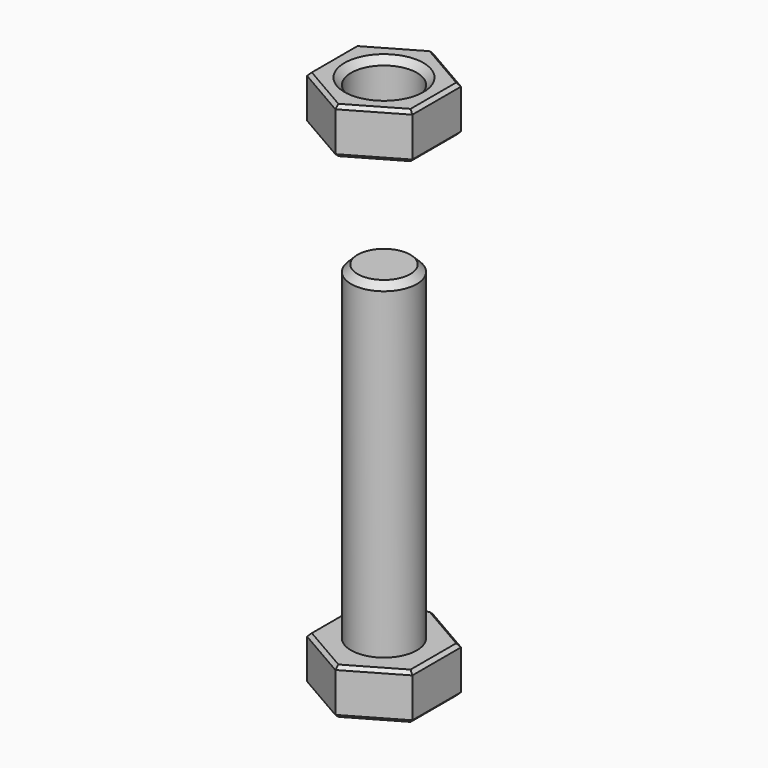
from build123d import *

# Parameters (mm, degrees)
F3_DEPTH   = 2.8
F4_R       = 2
F5_DEPTH   = 20
F7_R       = 2
F8_DEPTH   = 2.8
F9_SIZE2   = 0.2
F9_SIZE    = 0.2
F9_2_SIZE2 = 0.2
F9_2_SIZE  = 0.2
F10_SIZE   = 0.4
F10_2_SIZE = 0.4


with BuildPart() as f3:
    # F2 (on Top) → F3 (new body)
    with BuildSketch(Plane.XY):
        Polygon((0, -3.6950417228), (3.2, -1.8475208614), (3.2, 1.8475208614), (0, 3.6950417228), (-3.2, 1.8475208614), (-3.2, -1.8475208614), align=None)
    extrude(amount=F3_DEPTH)

    # F4 (on face) → F5 (join)
    with BuildSketch(Plane.XY.offset(2.8)):
        Circle(F4_R)
    extrude(amount=F5_DEPTH)

    # F9
    f9_edges = [f3.edges().sort_by_distance(p)[0] for p in [
        (-1.6, -2.771281, 0),
        (1.6, -2.771281, 0),
        (3.2, 0, 0),
        (1.6, 2.771281, 0),
        (-1.6, 2.771281, 0),
        (-3.2, 0, 0),
        (-3.2, 0, 2.8),
        (-1.6, -2.771281, 2.8),
        (1.6, -2.771281, 2.8),
        (-1.6, 2.771281, 2.8),
        (1.6, 2.771281, 2.8),
        (3.2, 0, 2.8),
    ]]
    chamfer(f9_edges, length=F9_SIZE, length2=F9_SIZE2)

    # F10
    f10_edges = [f3.edges().sort_by_distance(p)[0] for p in [
        (-2, 0, 22.8),
    ]]
    chamfer(f10_edges, length=F10_SIZE)


with BuildPart() as f8:
    # F7 (on offset) → F8 (new body)
    with BuildSketch(Plane.XY.offset(30)):
        Polygon((0, -3.6950417228), (3.2, -1.8475208614), (3.2, 1.8475208614), (0, 3.6950417228), (-3.2, 1.8475208614), (-3.2, -1.8475208614), align=None)
        Circle(F7_R, mode=Mode.SUBTRACT)
    extrude(amount=F8_DEPTH)

    # F9#2
    f9_2_edges = [f8.edges().sort_by_distance(p)[0] for p in [
        (1.6, 2.771281, 32.8),
        (-1.6, 2.771281, 32.8),
        (-3.2, 0, 32.8),
        (-1.6, -2.771281, 32.8),
        (1.6, -2.771281, 32.8),
        (3.2, 0, 32.8),
        (1.6, -2.771281, 30),
        (-1.6, -2.771281, 30),
        (-3.2, 0, 30),
        (-1.6, 2.771281, 30),
        (1.6, 2.771281, 30),
        (3.2, 0, 30),
    ]]
    chamfer(f9_2_edges, length=F9_2_SIZE, length2=F9_2_SIZE2)

    # F10#2
    f10_2_edges = [f8.edges().sort_by_distance(p)[0] for p in [
        (2, 0, 31.4),
        (-2, 0, 30),
        (-2, 0, 32.8),
    ]]
    chamfer(f10_2_edges, length=F10_2_SIZE)


solid = Compound([f3.part, f8.part])
